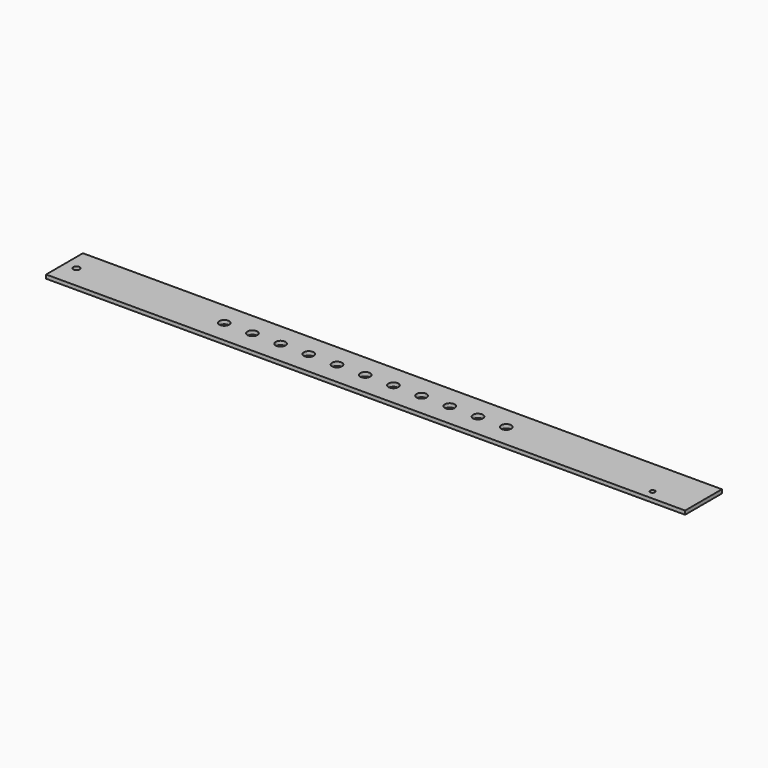
from build123d import *

# Parameters (mm, degrees)
F0_W     = 300
F0_H     = 24.5
F0_R     = 2.65
F1_DEPTH = 2
F2_DEPTH = 10
F3_DEPTH = 30
F4_R     = 1.7
F5_DEPTH = 2
F6_R     = 1.25
F7_DEPTH = 2


with BuildPart() as f1:
    # F0 (on Top) → F1 (new body)
    with BuildSketch(Plane.XY):
        Rectangle(F0_W, F0_H)
        with Locations((-75, 0)):
            Circle(F0_R, mode=Mode.SUBTRACT)
        with Locations((-60, 0)):
            Circle(F0_R, mode=Mode.SUBTRACT)
        with Locations((-45, 0)):
            Circle(F0_R, mode=Mode.SUBTRACT)
        with Locations((-30, 0)):
            Circle(F0_R, mode=Mode.SUBTRACT)
        with Locations((-15, 0)):
            Circle(F0_R, mode=Mode.SUBTRACT)
        Circle(F0_R, mode=Mode.SUBTRACT)
        with Locations((15, 0)):
            Circle(F0_R, mode=Mode.SUBTRACT)
        with Locations((30, 0)):
            Circle(F0_R, mode=Mode.SUBTRACT)
        with Locations((45, 0)):
            Circle(F0_R, mode=Mode.SUBTRACT)
        with Locations((60, 0)):
            Circle(F0_R, mode=Mode.SUBTRACT)
        with Locations((75, 0)):
            Circle(F0_R, mode=Mode.SUBTRACT)
    extrude(amount=F1_DEPTH)

    # F2 (add): a face of the model
    f2_faces = [f1.faces().sort_by_distance(p)[0] for p in [
        (-150, 0, 1),
    ]]
    extrude(f2_faces, amount=F2_DEPTH)

    # F3 (add): a face of the model
    f3_faces = [f1.faces().sort_by_distance(p)[0] for p in [
        (150, 0, 1),
    ]]
    extrude(f3_faces, amount=F3_DEPTH)

    # F4 (on face) → F5 (cut, through all)
    with BuildSketch(Plane.XY.offset(2)):
        with Locations((-153.6, 0)):
            Circle(F4_R)
    extrude(amount=-F5_DEPTH, mode=Mode.SUBTRACT)

    # F6 (on face) → F7 (cut, through all)
    with BuildSketch(Plane.XY.offset(2)):
        with Locations((158.75, -7.25)):
            Circle(F6_R)
    extrude(amount=-F7_DEPTH, mode=Mode.SUBTRACT)


solid = f1.part
